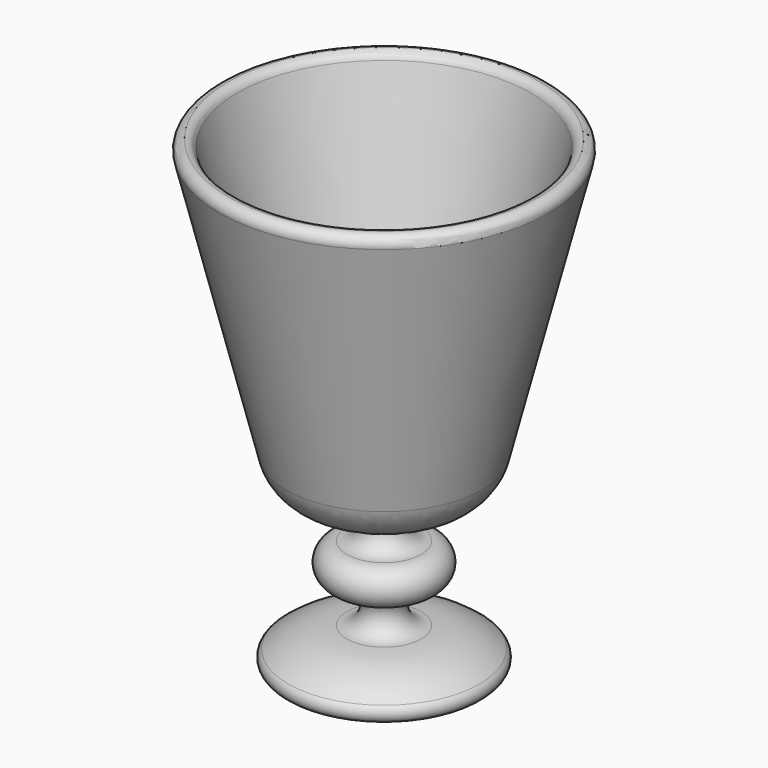
from build123d import *


with BuildPart() as f1:
    # F0 (on Front) → F1 (revolve)
    with BuildSketch(Plane.XZ):
        with BuildLine():
            Line((0, -28.575), (0, 0))
            Line((0, 0), (-5.758898, 0))
            ThreePointArc((-5.758898, 0), (-11.229912, 1.882854), (-14.383465, 6.733858))
            Line((-14.383465, 6.733858), (-25.099381, 49.597525))
            ThreePointArc((-25.099381, 49.597525), (-25.643374, 50.448592), (-26.590625, 50.799248))
            ThreePointArc((-26.590625, 50.799248), (-27.807931, 50.170094), (-28.081869, 48.827475))
            Line((-28.081869, 48.827475), (-16.764715, 3.558858))
            ThreePointArc((-16.764715, 3.558858), (-13.611162, -1.292146), (-8.140148, -3.175))
            Line((-8.140148, -3.175), (-6.35, -3.175))
            ThreePointArc((-6.35, -3.175), (-3.175, -6.35), (-6.35, -9.525))
            ThreePointArc((-6.35, -9.525), (-9.525, -12.7), (-6.35, -15.875))
            ThreePointArc((-6.35, -15.875), (-3.175, -19.05), (-6.35, -22.225))
            ThreePointArc((-6.35, -22.225), (-11.641667, -23.132906), (-16.328062, -25.752778))
            ThreePointArc((-16.328062, -25.752778), (-16.826965, -27.516667), (-15.330256, -28.575))
            Line((-15.330256, -28.575), (0, -28.575))
        make_face()
    revolve(axis=Axis((0, 0, 11.948283), (0, 0, 1)))


solid = f1.part
